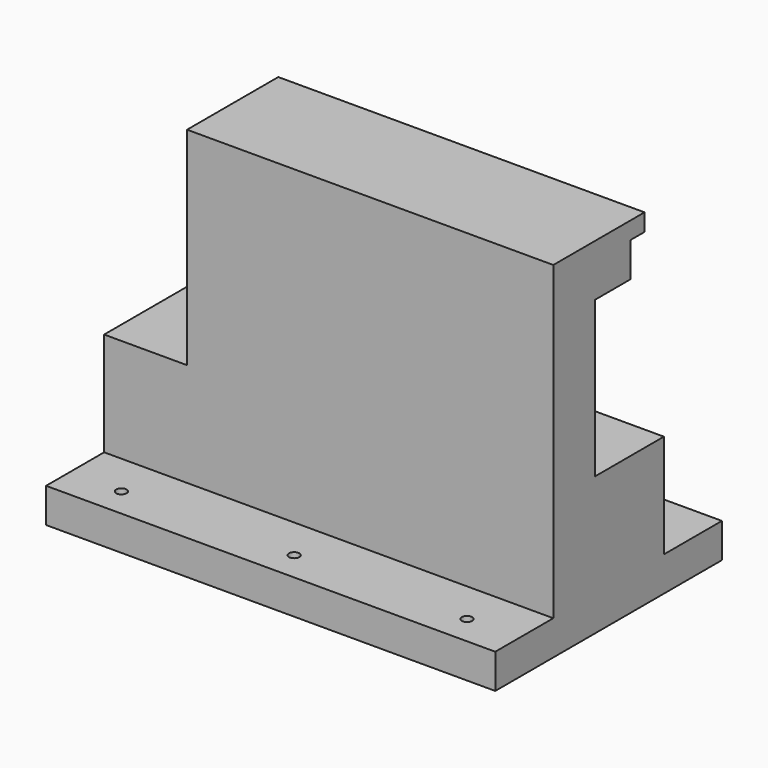
from build123d import *

# Parameters (mm, degrees)
F1_DEPTH      = 65
F1_DEPTH_BACK = 65
F3_DEPTH      = 106
F4_R          = 1.5
F5_DEPTH      = 10


with BuildPart() as f1:
    # F0 (on Right) → F1 (new body, two sides)
    with BuildSketch(Plane.YZ) as f1_sk:
        Polygon((0, 10), (0, 0), (82, 0), (82, 10), (61, 10), (61, 40), (21, 40), (21, 10), align=None)
    extrude(amount=F1_DEPTH)
    extrude(f1_sk.sketch, amount=-F1_DEPTH_BACK)

    # F2 (on face) → F3 (join)
    with BuildSketch(Plane.YZ.offset(65)):
        Polygon((21, 100), (21, 40), (36, 40), (36, 85), (49, 85), (49, 95), (54, 95), (54, 100), align=None)
    extrude(amount=-F3_DEPTH)

    # F4 (on face) → F5 (cut)
    with BuildSketch(Plane.XY.offset(10)):
        with Locations((-50, 73.5)):
            Circle(F4_R)
        with Locations((0, 73.5)):
            Circle(F4_R)
        with Locations((50, 73.5)):
            Circle(F4_R)
        with Locations((50, 8.5)):
            Circle(F4_R)
        with Locations((0, 8.5)):
            Circle(F4_R)
        with Locations((-50, 8.5)):
            Circle(F4_R)
    extrude(amount=-F5_DEPTH, mode=Mode.SUBTRACT)


solid = f1.part
